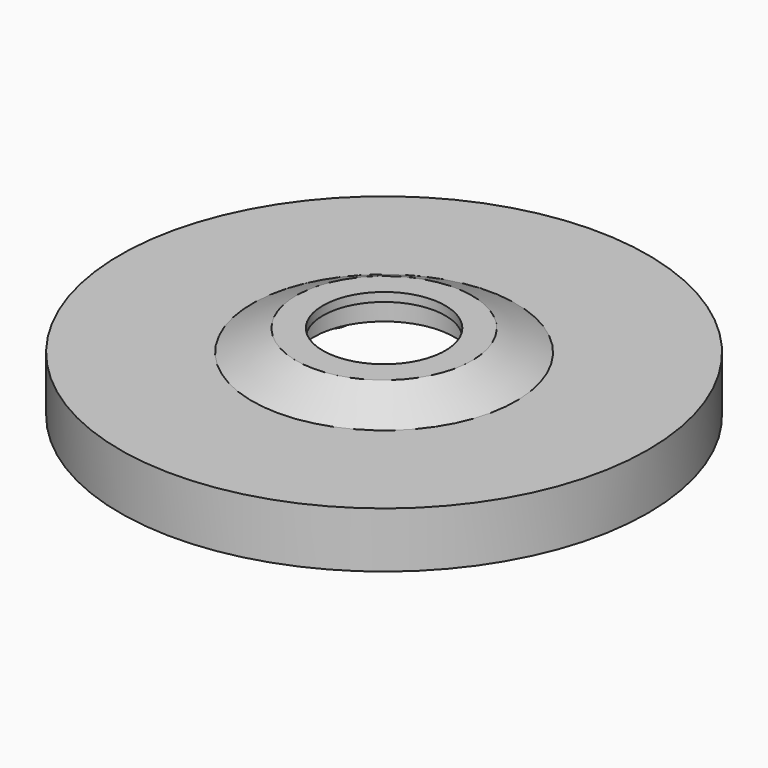
from build123d import *

# Parameters (mm, degrees)
F0_R      = 76.2
F1_DEPTH  = 19.05
F2_R      = 45.974
F3_DEPTH  = 10.16
F8_R      = 73.66
F8_R_2    = 49.149
F9_DEPTH  = 10.16
F10_R     = 76.2
F10_R_2   = 73.66
F11_DEPTH = 3.175
F14_R     = 4.7625
F14_R_2   = 1.5875
F15_DEPTH = 6.35


with BuildPart() as f1:
    # F0 (on Top) → F1 (new body)
    with BuildSketch(Plane.XY):
        Circle(F0_R)
    extrude(amount=F1_DEPTH)

    # F2 (on face) → F3 (cut)
    with BuildSketch(Plane(origin=(0, 0, 0), x_dir=(1, 0, 0), z_dir=(0, 0, -1))):
        Circle(F2_R)
    extrude(amount=-F3_DEPTH, mode=Mode.SUBTRACT)

    # F4 (on Front) → F5 (revolve, cut)
    with BuildSketch(Plane.XZ):
        Polygon((-17.653, 19.05), (-17.653, 16.51), (-20.32, 16.51), (-20.32, 10.16), (0, 10.16), (0, 19.05), align=None)
    revolve(axis=Axis((0, 0, 14.605), (0, 0, -1)), mode=Mode.SUBTRACT)

    # F6 (on Right) → F7 (revolve, cut)
    with BuildSketch(Plane.YZ):
        Polygon((-38.1, 12.8778), (-25.4, 19.05), (0, 19.05), (0, 29.321771), (-86.354569, 29.321771), (-86.354569, 12.8778), align=None)
    revolve(axis=Axis((0, 0, 24.185886), (0, 0, -1)), mode=Mode.SUBTRACT)

    # F8 (on face) → F9 (cut, through all)
    with BuildSketch(Plane(origin=(0, 0, 0), x_dir=(1, 0, 0), z_dir=(0, 0, -1))):
        Circle(F8_R)
        Circle(F8_R_2, mode=Mode.SUBTRACT)
    extrude(amount=-F9_DEPTH, mode=Mode.SUBTRACT)

    # F10 (on face) → F11 (join)
    with BuildSketch(Plane(origin=(0, 0, 0), x_dir=(1, 0, 0), z_dir=(0, 0, -1))):
        Circle(F10_R)
        Circle(F10_R_2, mode=Mode.SUBTRACT)
    extrude(amount=F11_DEPTH)

    # F14 (on face) → F15 (join)
    with BuildSketch(Plane(origin=(0, 0, 10.16), x_dir=(1, 0, 0), z_dir=(0, 0, -1))):
        with Locations((30.48, -18.804579)):
            Circle(F14_R)
        with Locations((30.48, -18.804579)):
            Circle(F14_R_2, mode=Mode.SUBTRACT)
        with Locations((-30.48, -18.804579)):
            Circle(F14_R)
        with Locations((-30.48, -18.804579)):
            Circle(F14_R_2, mode=Mode.SUBTRACT)
    extrude(amount=F15_DEPTH)


solid = f1.part
